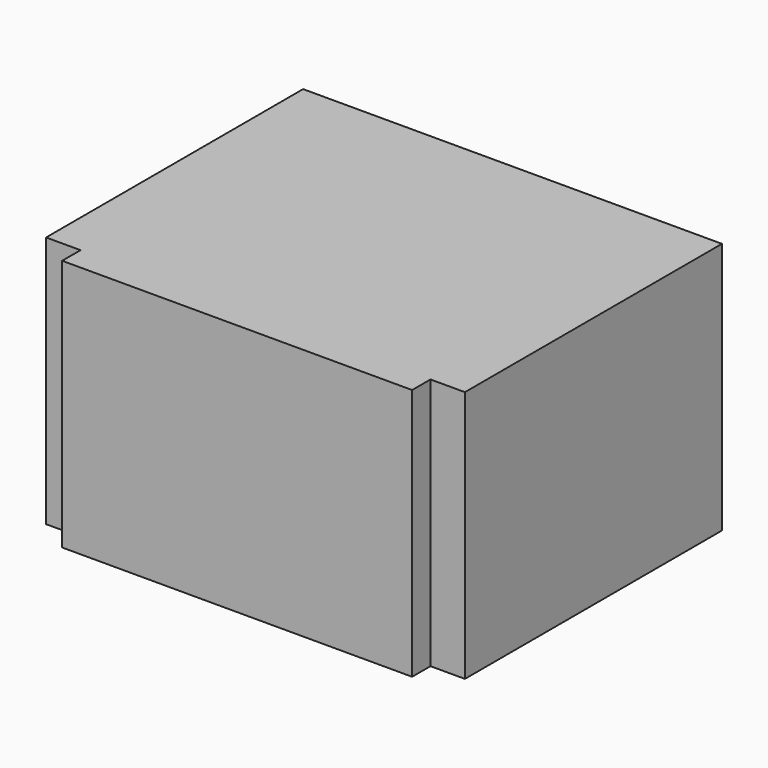
from build123d import *

# Parameters (mm, degrees)
BOX001_W     = 30.5
BOX001_H     = 30
BOX001_DEPTH = 22
BOX002_W     = 36.5
BOX002_H     = 28
BOX002_DEPTH = 22


with BuildPart() as cube001:
    # Box001 → Box001 (new body)
    with BuildSketch(Plane.XY):
        with Locations((15.25, 15)):
            Rectangle(BOX001_W, BOX001_H)
    extrude(amount=BOX001_DEPTH)


with BuildPart() as switch_slot:
    # Box002 → Box002 (new body)
    with BuildSketch(Plane(origin=(-3, 2, 0), x_dir=(1, 0, 0), z_dir=(0, 0, 1))):
        with Locations((18.25, 14)):
            Rectangle(BOX002_W, BOX002_H)
    extrude(amount=BOX002_DEPTH)

    # Fusion001: union Cube001
    add(cube001.part)


with BuildPart() as switch_slot_1:
    # Fusion001 placement: moved
    add(switch_slot.part.moved(Location((4.75, 0, 2))))


solid = switch_slot_1.part
